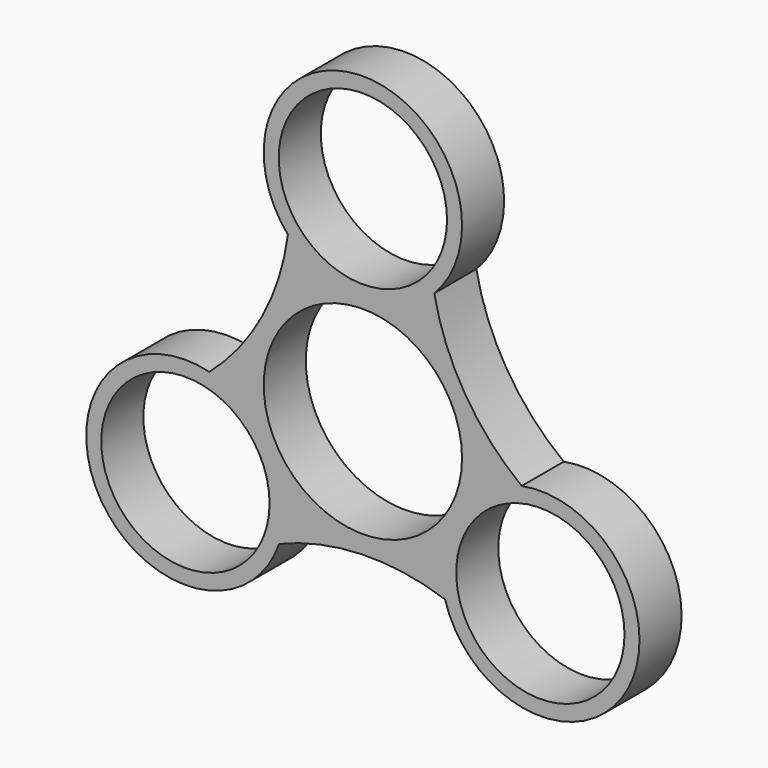
from build123d import *

# Parameters (mm, degrees)
F0_R     = 11.2
F0_R_2   = 13.2
F1_DEPTH = 7


with BuildPart() as f1:
    # F0 (on Front) → F1 (new body)
    with BuildSketch(Plane.XZ):
        with BuildLine():
            ThreePointArc((21.13777, -0.673908), (13.59421, 7.651554), (9.503324, 18.114979))
            ThreePointArc((9.503324, 18.114979), (0.357373, 40.471299), (-9.985263, 18.6428))
            ThreePointArc((-9.985263, 18.6428), (-13.423545, 7.947154), (-20.439694, -0.827369))
            ThreePointArc((-20.439694, -0.827369), (-35.22786, -19.926156), (-11.152507, -17.968892))
            ThreePointArc((-11.152507, -17.968892), (-0.170665, -15.598708), (10.93637, -17.28761))
            ThreePointArc((10.93637, -17.28761), (34.870487, -20.545143), (21.13777, -0.673908))
        make_face()
        with Locations((-23.621828, -13.638069)):
            Circle(F0_R, mode=Mode.SUBTRACT)
        with Locations((23.621828, -13.638069)):
            Circle(F0_R, mode=Mode.SUBTRACT)
        Circle(F0_R_2, mode=Mode.SUBTRACT)
        with Locations((0, 27.276138)):
            Circle(F0_R, mode=Mode.SUBTRACT)
    extrude(amount=F1_DEPTH)


solid = f1.part
